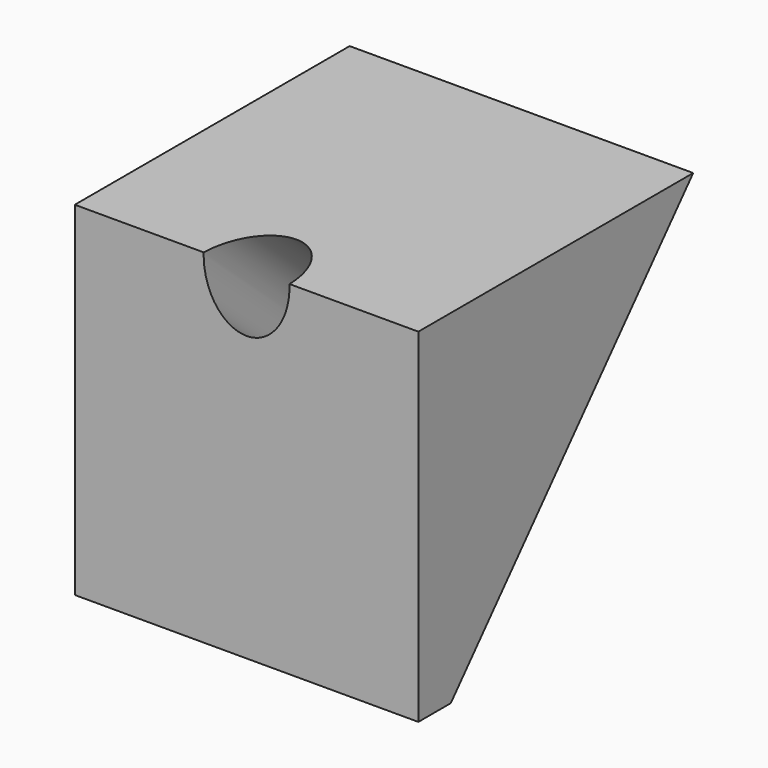
from build123d import *

# Parameters (mm, degrees)
F1_DEPTH      = 38.1
F3_DEPTH      = 19.051
F3_DEPTH_BACK = 19.051
F4_R          = 4.7625
F5_DEPTH      = 28.5749043881


with BuildPart() as f1:
    # F0 (on Front) → F1 (new body)
    with BuildSketch(Plane.XZ):
        Polygon((-19.05, 38.1), (-19.05, 0), (0, 0), (19.05, 0), (19.05, 38.1), align=None)
    extrude(amount=F1_DEPTH)

    # F2 (on Right) → F3 (cut, two sides)
    with BuildSketch(Plane.YZ) as f3_sk:
        Polygon((-33.6039864189, 0), (0, 0), (0, 38.1), align=None)
    extrude(amount=-F3_DEPTH, mode=Mode.SUBTRACT)
    extrude(f3_sk.sketch, amount=F3_DEPTH_BACK, mode=Mode.SUBTRACT)

    # F4 (on face) → F5 (cut, through all)
    with BuildSketch(Plane(origin=(0, -18.9007929031, 16.6703933864), x_dir=(-1, 0, 0), z_dir=(0, 0.7499712438, -0.6614704328))):
        with Locations((0, 3.1729304735)):
            Circle(F4_R)
    extrude(amount=-F5_DEPTH, mode=Mode.SUBTRACT)


solid = f1.part
